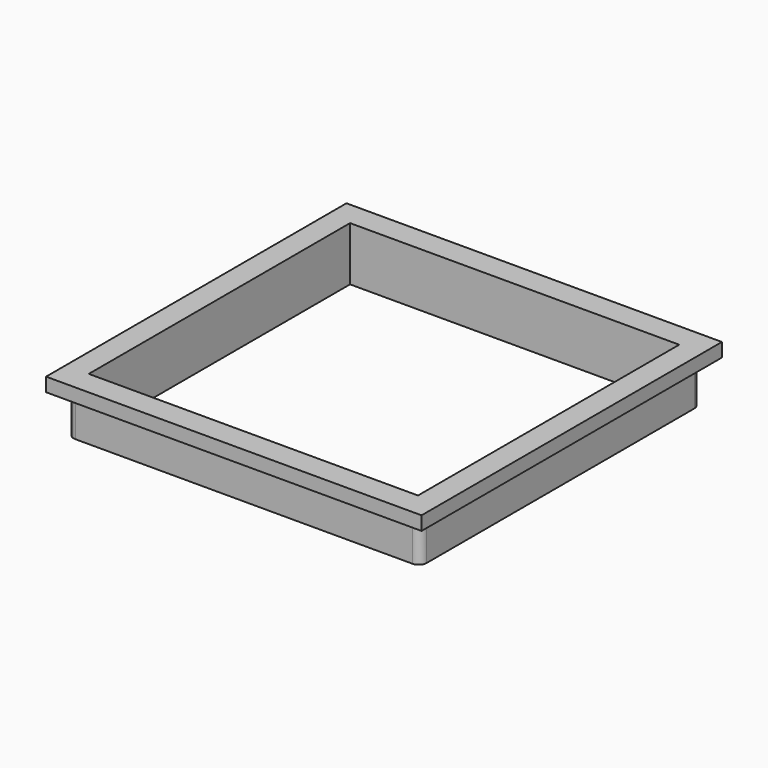
from build123d import *

# Parameters (mm, degrees)
F0_W     = 142
F0_H     = 142
F1_DEPTH = 5.2
F0_W_2   = 124.5
F0_H_2   = 123.5
F2_DEPTH = 20.4


with BuildPart() as f1:
    # F0 (on Top) → F1 (new body)
    with BuildSketch(Plane.XY):
        Rectangle(F0_W, F0_H)
        with BuildLine():
            Line((-63.75, 66.25), (63.75, 66.25))
            ThreePointArc((63.75, 66.25), (65.87132, 65.37132), (66.75, 63.25))
            Line((66.75, 63.25), (66.75, -63.25))
            ThreePointArc((66.75, -63.25), (65.87132, -65.37132), (63.75, -66.25))
            Line((63.75, -66.25), (-63.75, -66.25))
            ThreePointArc((-63.75, -66.25), (-65.87132, -65.37132), (-66.75, -63.25))
            Line((-66.75, -63.25), (-66.75, 63.25))
            ThreePointArc((-66.75, 63.25), (-65.87132, 65.37132), (-63.75, 66.25))
        make_face(mode=Mode.SUBTRACT)
    extrude(amount=-F1_DEPTH)

    # F0 (on Top) → F2 (join)
    with BuildSketch(Plane.XY):
        with BuildLine():
            ThreePointArc((66.75, 63.25), (65.87132, 65.37132), (63.75, 66.25))
            Line((63.75, 66.25), (-63.75, 66.25))
            ThreePointArc((-63.75, 66.25), (-65.87132, 65.37132), (-66.75, 63.25))
            Line((-66.75, 63.25), (-66.75, -63.25))
            ThreePointArc((-66.75, -63.25), (-65.87132, -65.37132), (-63.75, -66.25))
            Line((-63.75, -66.25), (63.75, -66.25))
            ThreePointArc((63.75, -66.25), (65.87132, -65.37132), (66.75, -63.25))
            Line((66.75, -63.25), (66.75, 63.25))
        make_face()
        Rectangle(F0_W_2, F0_H_2, mode=Mode.SUBTRACT)
    extrude(amount=-F2_DEPTH)


solid = f1.part
